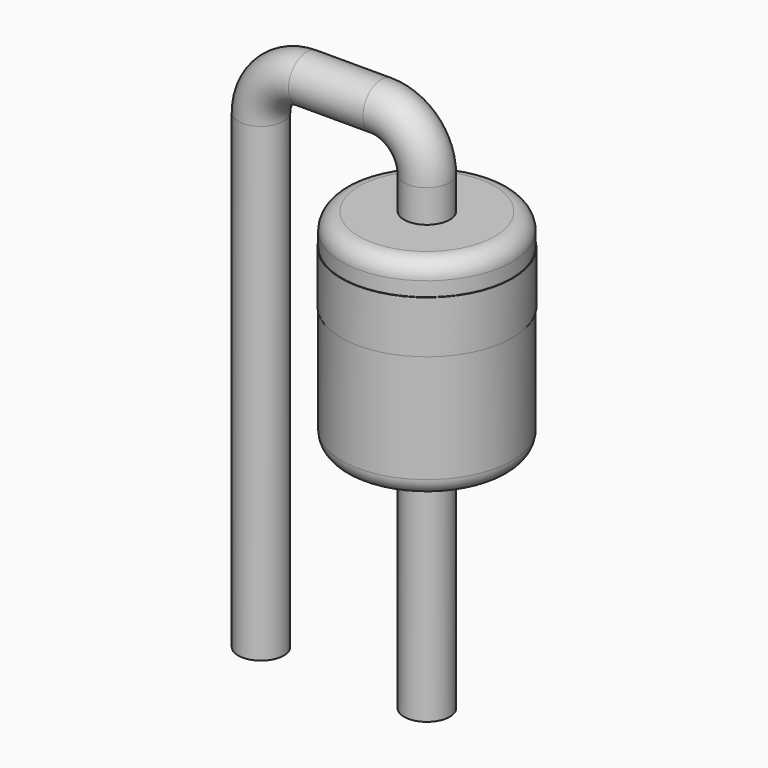
from build123d import *

# Parameters (mm, degrees)
SKETCH001_R = 0.35
SKETCH003_W = 0.02
SKETCH003_H = 0.8
SKETCH002_W = 1.3
SKETCH002_H = 3.2
FILLET_R    = 0.26


with BuildPart() as sweep_body:
    # Sweep: sweep along a path in Sketch
    with BuildLine(Plane.XZ) as sweep_path:
        Line((0, -3), (0, 4.2))
        ThreePointArc((0, 4.2), (0.205025, 4.694975), (0.7, 4.9))
        Line((0.7, 4.9), (1.84, 4.9))
        ThreePointArc((1.84, 4.9), (2.334975, 4.694975), (2.54, 4.2))
        Line((2.54, 4.2), (2.54, -3))
    # Sketch001 → Sweep (sweep)
    with BuildSketch(Plane.XY):
        Circle(SKETCH001_R)
    sweep(path=sweep_path.line)


with BuildPart() as revolution001:
    # Sketch003 → Revolution001 (revolve)
    with BuildSketch(Plane.XZ):
        with Locations((3.84, 2.82)):
            Rectangle(SKETCH003_W, SKETCH003_H)
    revolve(axis=Axis((2.54, 0, 5.9), (0, 0, 1)))


with BuildPart() as fillet_body:
    # Sketch002 → Revolution (revolve)
    with BuildSketch(Plane.XZ):
        with Locations((3.19, 2.1)):
            Rectangle(SKETCH002_W, SKETCH002_H)
    revolve(axis=Axis((2.54, 0, 0.5), (0, 0, 1)))

    # Fillet
    fillet_edges = [fillet_body.edges().sort_by_distance(p)[0] for p in [
        (1.24, 0, 3.7),
        (1.24, 0, 0.5),
    ]]
    fillet(fillet_edges, radius=FILLET_R)


solid = Compound([sweep_body.part, revolution001.part, fillet_body.part])
